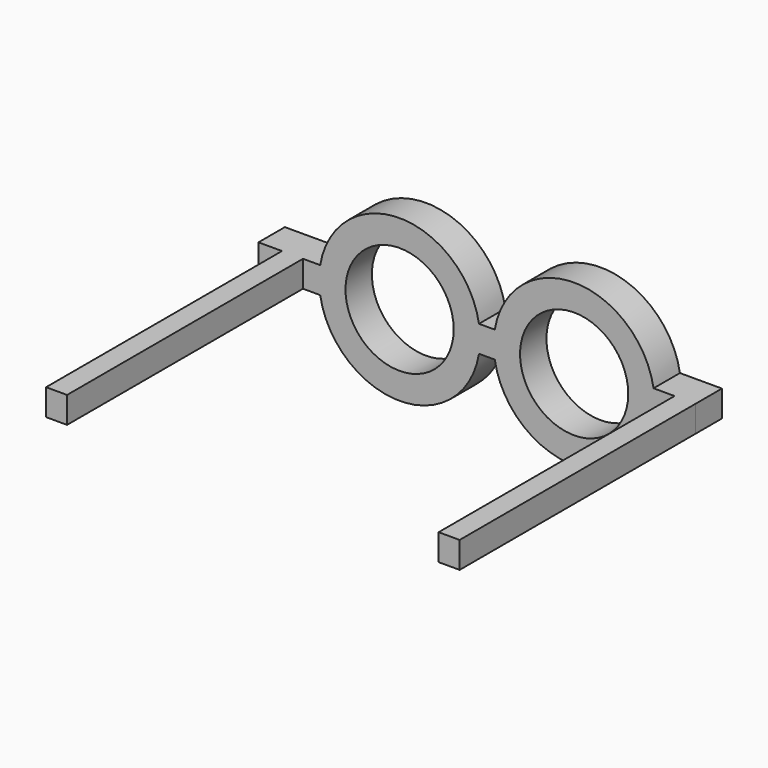
from build123d import *

# Parameters (mm, degrees)
F0_R     = 8.2
F1_DEPTH = 5
F2_W     = 3.183
F2_H     = 4
F2_W_2   = 3.182525
F3_DEPTH = 44.7


with BuildPart() as f1:
    # F0 (on Front) → F1 (new body)
    with BuildSketch(Plane.XZ):
        with BuildLine():
            Line((-21.39059, -2), (-12.034949, -2))
            ThreePointArc((-12.034949, -2), (0, -12.2), (12.034949, -2))
            Line((12.034949, -2), (14.427051, -2))
            ThreePointArc((14.427051, -2), (26.462, -12.2), (38.496949, -2))
            Line((38.496949, -2), (44.862, -2))
            Line((44.862, -2), (44.862, 2))
            Line((44.862, 2), (38.496949, 2))
            ThreePointArc((38.496949, 2), (26.462, 12.2), (14.427051, 2))
            Line((14.427051, 2), (12.034949, 2))
            ThreePointArc((12.034949, 2), (0, 12.2), (-12.034949, 2))
            Line((-12.034949, 2), (-21.39059, 2))
            Line((-21.39059, 2), (-21.39059, -2))
        make_face()
        Circle(F0_R, mode=Mode.SUBTRACT)
        with Locations((26.462, 0)):
            Circle(F0_R, mode=Mode.SUBTRACT)
    extrude(amount=F1_DEPTH)

    # F2 (on face) → F3 (join)
    with BuildSketch(Plane.XZ.offset(5)):
        with Locations((-16.23459, 0)):
            Rectangle(F2_W, F2_H)
        with Locations((43.270737, 0)):
            Rectangle(F2_W_2, F2_H)
    extrude(amount=F3_DEPTH)


solid = f1.part
